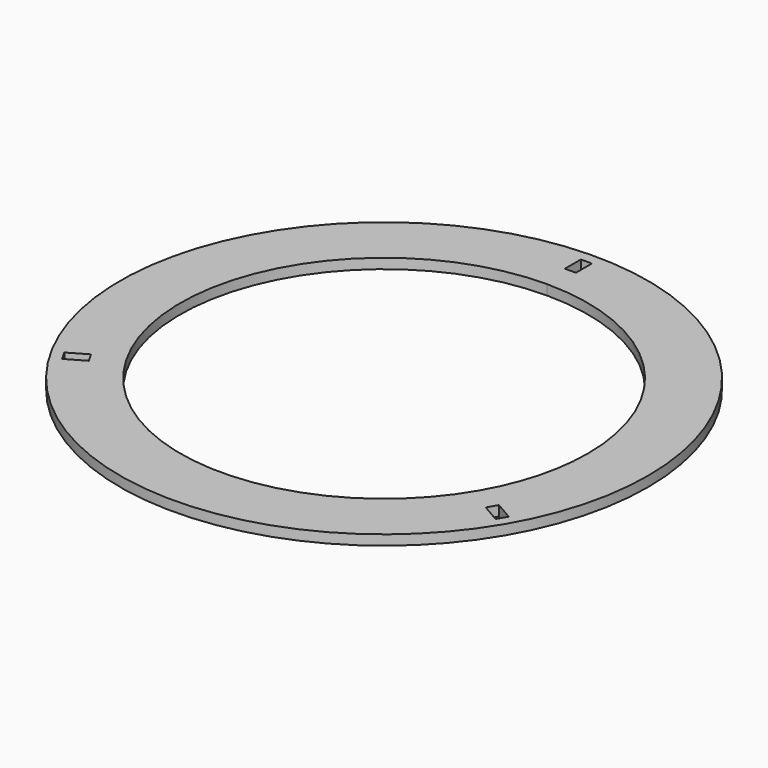
from build123d import *

# Parameters (mm, degrees)
F0_R     = 131.6
F1_DEPTH = 5


with BuildPart() as f1:
    # F0 (on Top) → F1 (new body)
    with BuildSketch(Plane.XY):
        Circle(F0_R)
        Polygon((-101.704043, -55.54343), (-100.329043, -57.925), (-98.954043, -60.30657), (-108.04731, -65.55657), (-110.79731, -60.79343), align=None, mode=Mode.SUBTRACT)
        Polygon((98.954043, -60.30657), (100.329043, -57.925), (101.704043, -55.54343), (110.79731, -60.79343), (108.04731, -65.55657), align=None, mode=Mode.SUBTRACT)
        with BuildLine():
            ThreePointArc((0, 101.6), (71.842049, 71.842049), (101.6, 0))
            ThreePointArc((101.6, 0), (98.138064, -26.296015), (87.988181, -50.8))
            ThreePointArc((87.988181, -50.8), (0, -101.6), (-87.988181, -50.8))
            ThreePointArc((-87.988181, -50.8), (-87.988181, 50.8), (0, 101.6))
        make_face(mode=Mode.SUBTRACT)
        Polygon((2.75, 116.1), (0, 116.1), (-2.75, 116.1), (-2.75, 126.1), (2.75, 126.1), align=None, mode=Mode.SUBTRACT)
    extrude(amount=F1_DEPTH)


solid = f1.part
